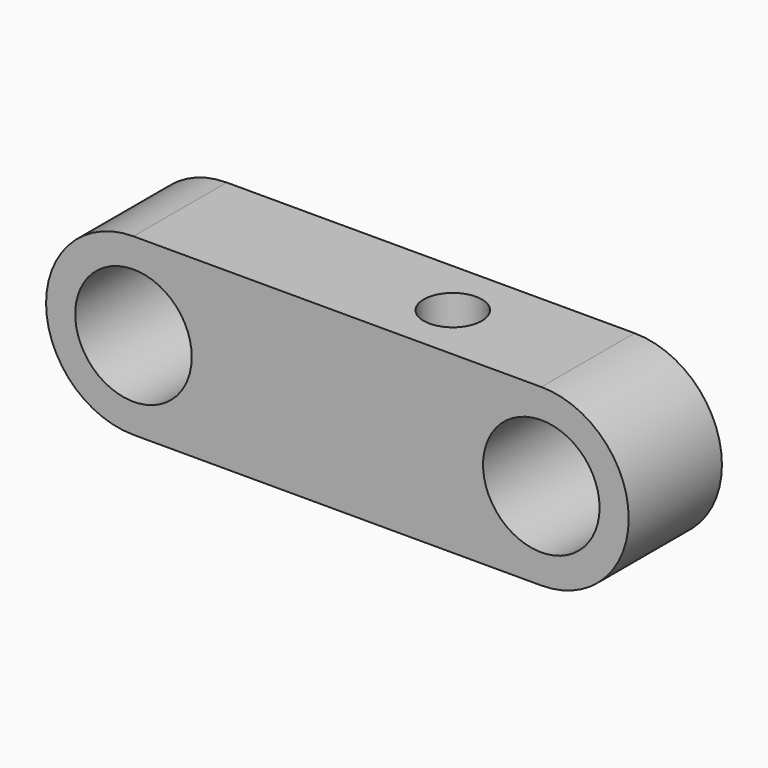
from build123d import *

# Parameters (mm, degrees)
F0_R     = 10
F1_DEPTH = 20
F3_D     = 10


with BuildPart() as f1:
    # F0 (on Front) → F1 (new body)
    with BuildSketch(Plane.XZ):
        with Locations((-36.797695, 0)):
            Circle(F0_R)
        with BuildLine():
            Line((33.202305, 15), (-36.797695, 15))
            ThreePointArc((-36.797695, 15), (-51.797695, 0), (-36.797695, -15))
            Line((-36.797695, -15), (33.202305, -15))
            ThreePointArc((33.202305, -15), (48.202305, 0), (33.202305, 15))
        make_face()
        with Locations((-36.797695, 0)):
            Circle(F0_R, mode=Mode.SUBTRACT)
        with Locations((33.202305, 0)):
            Circle(F0_R, mode=Mode.SUBTRACT)
    extrude(amount=F1_DEPTH)

    # F3 (through all)
    with Locations(Plane.XY.offset(15)):
        with Locations((10.008996, -10)):
            Hole(F3_D / 2)


solid = f1.part
